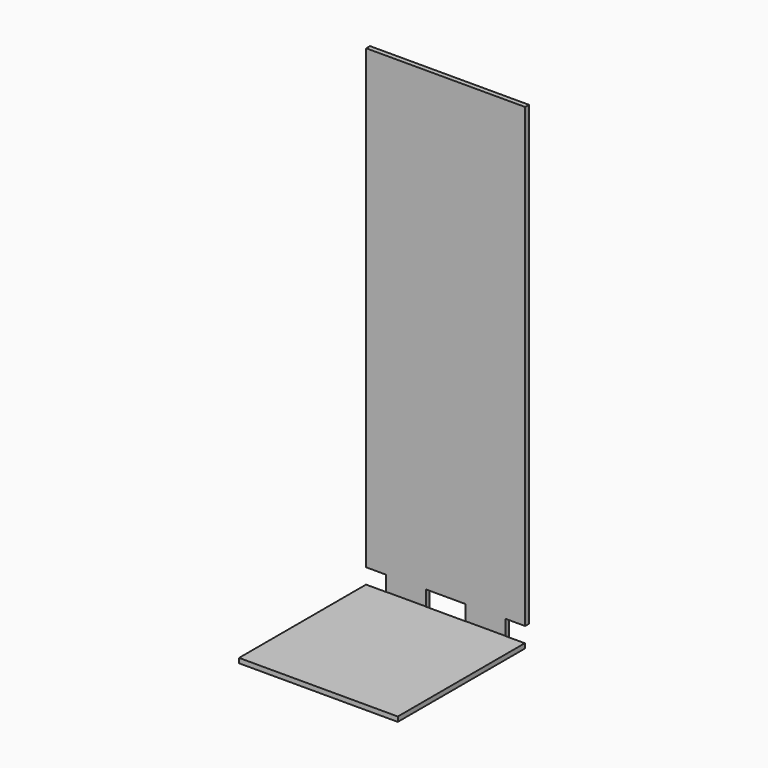
from build123d import *

# Parameters (mm, degrees)
F1_DEPTH = 12
F3_DEPTH = 12


with BuildPart() as f1:
    # F0 (on Front) → F1 (new body)
    with BuildSketch(Plane.XZ):
        Polygon((50, 50), (50, 0), (150, 0), (150, 50), (250, 50), (250, 0), (350, 0), (350, 50), (400, 50), (400, 1200), (0, 1200), (0, 50), align=None)
    extrude(amount=F1_DEPTH)


with BuildPart() as f3:
    # F2 (on Top) → F3 (new body)
    with BuildSketch(Plane.XY):
        Polygon((50.5, -12.5), (0, -12.5), (0, -412), (399.5, -412), (399.5, -12.5), (349.5, -12.5), (349.5, 0), (250.5, 0), (250.5, -12.5), (149.5, -12.5), (149.5, 0), (50.5, 0), align=None)
    extrude(amount=F3_DEPTH)


solid = Compound([f1.part, f3.part])
